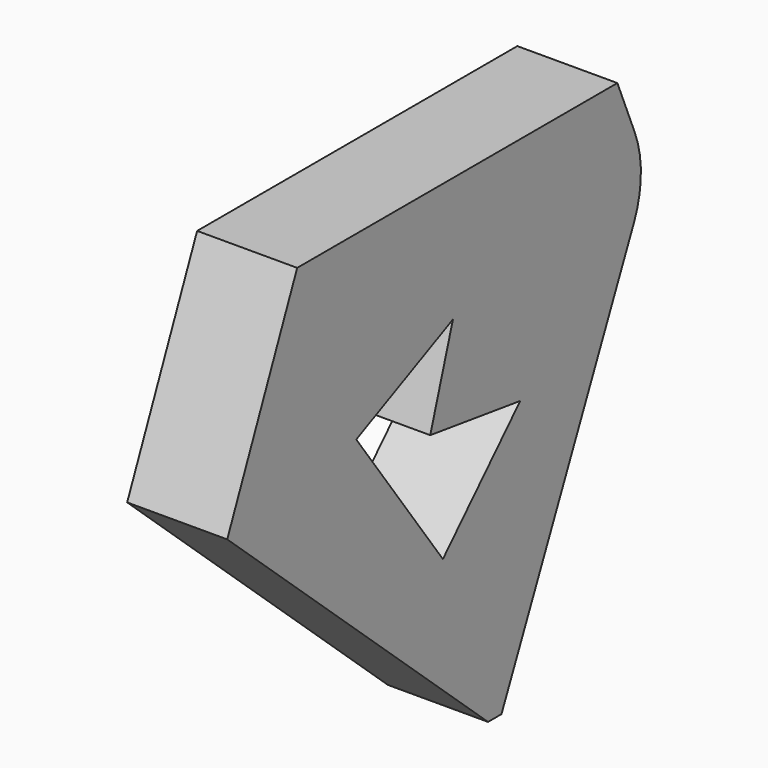
from build123d import *

# Parameters (mm, degrees)
F1_DEPTH = 127
F3_DEPTH = 254


with BuildPart() as f1:
    # F0 (on Right) → F1 (new body)
    with BuildSketch(Plane.YZ):
        with BuildLine():
            Line((-21.34454, 0), (0, 0))
            Line((0, 0), (209.8645, 462.936498))
            ThreePointArc((209.8645, 462.936498), (221.179593, 513.382616), (211.45127, 564.158614))
            Line((211.45127, 564.158614), (183.866499, 630.458851))
            Line((183.866499, 630.458851), (-324.133501, 630.458851))
            Line((-324.133501, 630.458851), (-435.125129, 372.189923))
            Line((-435.125129, 372.189923), (-21.34454, 0))
        make_face()
    extrude(amount=F1_DEPTH)

    # F2 (on face) → F3 (cut)
    with BuildSketch(Plane.YZ.offset(127)):
        Polygon((-76.997541, 472.424954), (-230.415642, 400.5723), (-92.960328, 211.070791), (29.763866, 337.927192), (-113.02951, 357.656449), align=None)
    extrude(amount=-F3_DEPTH, mode=Mode.SUBTRACT)


solid = f1.part
